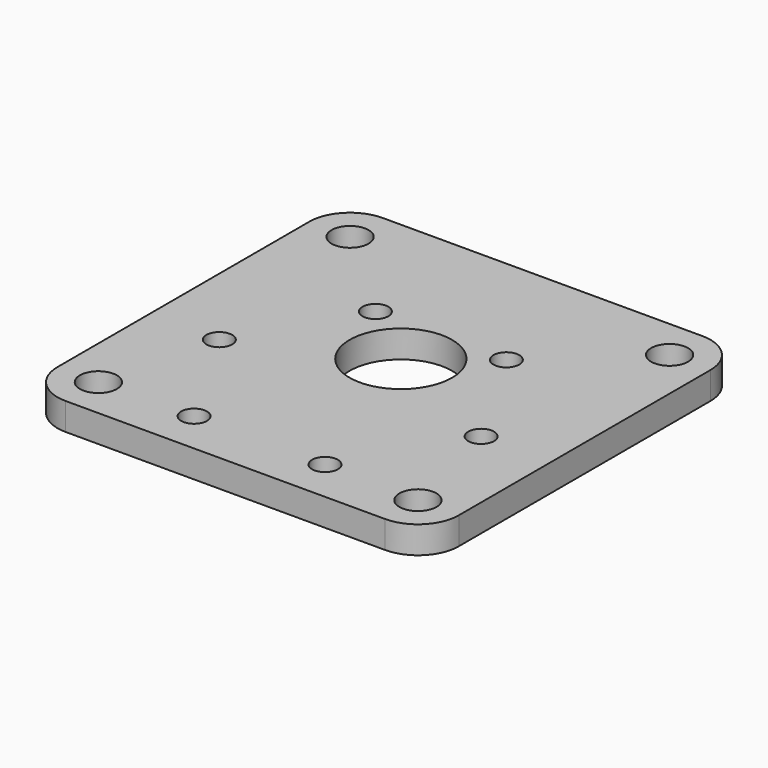
from build123d import *

# Parameters (mm, degrees)
F0_W     = 46.72538
F0_H     = 46.152003
F0_R     = 2.15265
F0_R_2   = 1.5
F0_R_3   = 5.969
F1_DEPTH = 3.175
F2_R     = 4.7625


with BuildPart() as f1:
    # F0 (on Top) → F1 (new body)
    with BuildSketch(Plane.XY):
        with Locations((0, 4.915002)):
            Rectangle(F0_W, F0_H)
        with Locations((-18.60019, -13.3985)):
            Circle(F0_R, mode=Mode.SUBTRACT)
        with Locations((-7.62, -13.198227)):
            Circle(F0_R_2, mode=Mode.SUBTRACT)
        with Locations((-15.24, 0)):
            Circle(F0_R_2, mode=Mode.SUBTRACT)
        with Locations((7.62, -13.198227)):
            Circle(F0_R_2, mode=Mode.SUBTRACT)
        with Locations((18.60019, -13.3985)):
            Circle(F0_R, mode=Mode.SUBTRACT)
        with Locations((15.24, 0)):
            Circle(F0_R_2, mode=Mode.SUBTRACT)
        with Locations((0, 7.366)):
            Circle(F0_R_3, mode=Mode.SUBTRACT)
        with Locations((-7.62, 13.198227)):
            Circle(F0_R_2, mode=Mode.SUBTRACT)
        with Locations((-18.60019, 23.228503)):
            Circle(F0_R, mode=Mode.SUBTRACT)
        with Locations((7.62, 13.198227)):
            Circle(F0_R_2, mode=Mode.SUBTRACT)
        with Locations((18.60019, 23.228503)):
            Circle(F0_R, mode=Mode.SUBTRACT)
    extrude(amount=F1_DEPTH)

    # F2
    f2_edges = [f1.edges().sort_by_distance(p)[0] for p in [
        (-23.36269, -18.161, 1.5875),
        (23.36269, -18.161, 1.5875),
        (23.36269, 27.991003, 1.5875),
        (-23.36269, 27.991003, 1.5875),
    ]]
    fillet(f2_edges, radius=F2_R)


solid = f1.part
